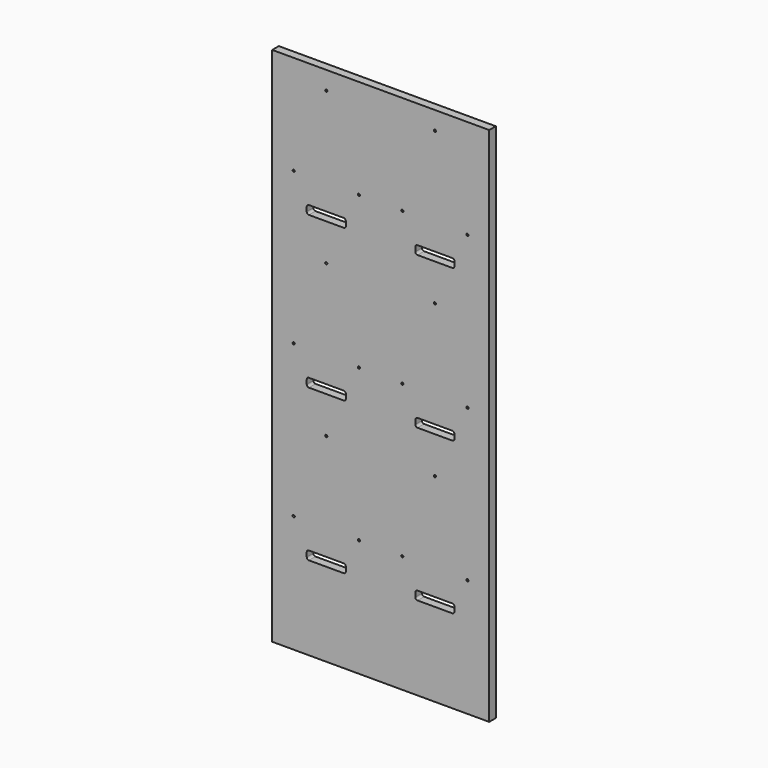
from build123d import *

# Parameters (mm, degrees)
F1_W     = 499.5
F1_H     = 1199.5
F1_R     = 2.5
F2_DEPTH = 19


with BuildPart() as f2:
    # F1 (on Front) → F2 (new body)
    with BuildSketch(Plane.XZ):
        with Locations((750.25, 990.25)):
            Rectangle(F1_W, F1_H)
        with Locations((550, 661.2)):
            Circle(F1_R, mode=Mode.SUBTRACT)
        with BuildLine():
            Line((665, 583), (585, 583))
            ThreePointArc((585, 583), (581.4644660941, 584.4644660941), (580, 588))
            Line((580, 588), (580, 598))
            ThreePointArc((580, 598), (581.4644660941, 601.5355339059), (585, 603))
            Line((585, 603), (665, 603))
            ThreePointArc((665, 603), (668.5355339059, 601.5355339059), (670, 598))
            Line((670, 598), (670, 588))
            ThreePointArc((670, 588), (668.5355339059, 584.4644660941), (665, 583))
        make_face(mode=Mode.SUBTRACT)
        with Locations((700, 661.2)):
            Circle(F1_R, mode=Mode.SUBTRACT)
        with Locations((800, 661.2)):
            Circle(F1_R, mode=Mode.SUBTRACT)
        with BuildLine():
            Line((830, 588), (830, 598))
            ThreePointArc((830, 598), (831.4644660941, 601.5355339059), (835, 603))
            Line((835, 603), (915, 603))
            ThreePointArc((915, 603), (918.5355339059, 601.5355339059), (920, 598))
            Line((920, 598), (920, 588))
            ThreePointArc((920, 588), (918.5355339059, 584.4644660941), (915, 583))
            Line((915, 583), (835, 583))
            ThreePointArc((835, 583), (831.4644660941, 584.4644660941), (830, 588))
        make_face(mode=Mode.SUBTRACT)
        with Locations((950, 661.2)):
            Circle(F1_R, mode=Mode.SUBTRACT)
        with Locations((625, 848)):
            Circle(F1_R, mode=Mode.SUBTRACT)
        with BuildLine():
            ThreePointArc((585, 933), (581.4644660941, 934.4644660941), (580, 938))
            Line((580, 938), (580, 948))
            ThreePointArc((580, 948), (581.4644660941, 951.5355339059), (585, 953))
            Line((585, 953), (665, 953))
            ThreePointArc((665, 953), (668.5355339059, 951.5355339059), (670, 948))
            Line((670, 948), (670, 938))
            ThreePointArc((670, 938), (668.5355339059, 934.4644660941), (665, 933))
            Line((665, 933), (585, 933))
        make_face(mode=Mode.SUBTRACT)
        with Locations((875, 848)):
            Circle(F1_R, mode=Mode.SUBTRACT)
        with BuildLine():
            Line((830, 938), (830, 948))
            ThreePointArc((830, 948), (831.4644660941, 951.5355339059), (835, 953))
            Line((835, 953), (915, 953))
            ThreePointArc((915, 953), (918.5355339059, 951.5355339059), (920, 948))
            Line((920, 948), (920, 938))
            ThreePointArc((920, 938), (918.5355339059, 934.4644660941), (915, 933))
            Line((915, 933), (835, 933))
            ThreePointArc((835, 933), (831.4644660941, 934.4644660941), (830, 938))
        make_face(mode=Mode.SUBTRACT)
        with Locations((550, 1011.2)):
            Circle(F1_R, mode=Mode.SUBTRACT)
        with Locations((700, 1011.2)):
            Circle(F1_R, mode=Mode.SUBTRACT)
        with Locations((625, 1198)):
            Circle(F1_R, mode=Mode.SUBTRACT)
        with Locations((800, 1011.2)):
            Circle(F1_R, mode=Mode.SUBTRACT)
        with Locations((950, 1011.2)):
            Circle(F1_R, mode=Mode.SUBTRACT)
        with Locations((875, 1198)):
            Circle(F1_R, mode=Mode.SUBTRACT)
        with Locations((550, 1361.2)):
            Circle(F1_R, mode=Mode.SUBTRACT)
        with BuildLine():
            ThreePointArc((585, 1283), (581.4644660941, 1284.4644660941), (580, 1288))
            Line((580, 1288), (580, 1298))
            ThreePointArc((580, 1298), (581.4644660941, 1301.5355339059), (585, 1303))
            Line((585, 1303), (665, 1303))
            ThreePointArc((665, 1303), (668.5355339059, 1301.5355339059), (670, 1298))
            Line((670, 1298), (670, 1288))
            ThreePointArc((670, 1288), (668.5355339059, 1284.4644660941), (665, 1283))
            Line((665, 1283), (585, 1283))
        make_face(mode=Mode.SUBTRACT)
        with Locations((700, 1361.2)):
            Circle(F1_R, mode=Mode.SUBTRACT)
        with Locations((625, 1548)):
            Circle(F1_R, mode=Mode.SUBTRACT)
        with Locations((800, 1361.2)):
            Circle(F1_R, mode=Mode.SUBTRACT)
        with BuildLine():
            Line((915, 1283), (835, 1283))
            ThreePointArc((835, 1283), (831.4644660941, 1284.4644660941), (830, 1288))
            Line((830, 1288), (830, 1298))
            ThreePointArc((830, 1298), (831.4644660941, 1301.5355339059), (835, 1303))
            Line((835, 1303), (915, 1303))
            ThreePointArc((915, 1303), (918.5355339059, 1301.5355339059), (920, 1298))
            Line((920, 1298), (920, 1288))
            ThreePointArc((920, 1288), (918.5355339059, 1284.4644660941), (915, 1283))
        make_face(mode=Mode.SUBTRACT)
        with Locations((950, 1361.2)):
            Circle(F1_R, mode=Mode.SUBTRACT)
        with Locations((875, 1548)):
            Circle(F1_R, mode=Mode.SUBTRACT)
    extrude(amount=F2_DEPTH)


with BuildPart() as f2_1:
    # F3: moved
    add(f2.part.moved(Location((-500.5, 0, -390.5))))


solid = f2_1.part
